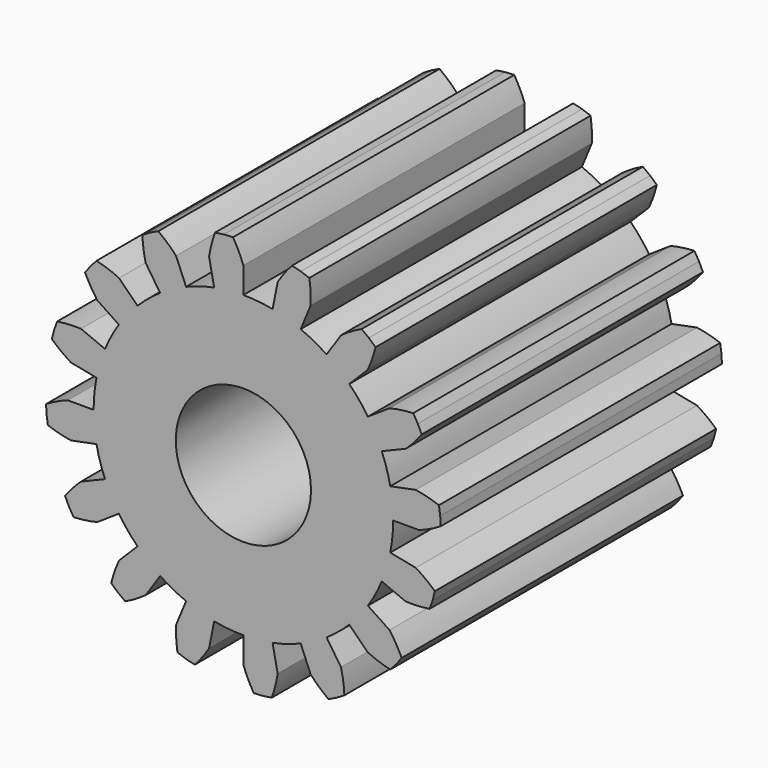
from build123d import *

# Parameters (mm, degrees)
F1_DEPTH = 6.35
F2_R     = 1.221512
F3_DEPTH = 30.89672


with BuildPart() as f1:
    # F0 (on Front) → F1 (new body)
    with BuildSketch(Plane.XZ):
        with BuildLine():
            Line((-1.763935, 2.639916), (-1.502873, 2.249208))
            ThreePointArc((-1.502873, 2.249208), (-1.716097, 2.091071), (-1.912795, 1.912795))
            Line((-1.912795, 1.912795), (-2.245064, 2.245064))
            ThreePointArc((-2.245064, 2.245064), (-2.445129, 2.326504), (-2.652293, 2.387669))
            Line((-2.652293, 2.387669), (-2.761528, 2.266327))
            Line((-2.761528, 2.266327), (-2.859227, 2.135519))
            ThreePointArc((-2.859227, 2.135519), (-2.758822, 1.944268), (-2.639916, 1.763935))
            Line((-2.639916, 1.763935), (-2.249208, 1.502873))
            ThreePointArc((-2.249208, 1.502873), (-2.385685, 1.275175), (-2.499187, 1.035197))
            Line((-2.499187, 1.035197), (-2.933318, 1.21502))
            ThreePointArc((-2.933318, 1.21502), (-3.149319, 1.213699), (-3.36412, 1.19093))
            Line((-3.36412, 1.19093), (-3.418605, 1.037022))
            Line((-3.418605, 1.037022), (-3.458809, 0.878784))
            ThreePointArc((-3.458809, 0.878784), (-3.292858, 0.740514), (-3.113993, 0.619412))
            Line((-3.113993, 0.619412), (-2.653122, 0.527739))
            ThreePointArc((-2.653122, 0.527739), (-2.692074, 0.265146), (-2.7051, 0))
            Line((-2.7051, 0), (-3.175, 0))
            ThreePointArc((-3.175, 0), (-3.374054, -0.08388), (-3.563791, -0.187118))
            Line((-3.563791, -0.187118), (-3.55523, -0.35016))
            Line((-3.55523, -0.35016), (-3.531819, -0.511739))
            ThreePointArc((-3.531819, -0.511739), (-3.325586, -0.575977), (-3.113993, -0.619412))
            Line((-3.113993, -0.619412), (-2.653122, -0.527739))
            ThreePointArc((-2.653122, -0.527739), (-2.588619, -0.785249), (-2.499187, -1.035197))
            Line((-2.499187, -1.035197), (-2.933318, -1.21502))
            ThreePointArc((-2.933318, -1.21502), (-3.08512, -1.36869), (-3.220907, -1.536678))
            Line((-3.220907, -1.536678), (-3.150604, -1.684033))
            Line((-3.150604, -1.684033), (-3.067141, -1.824353))
            ThreePointArc((-3.067141, -1.824353), (-2.852024, -1.80478), (-2.639916, -1.763935))
            Line((-2.639916, -1.763935), (-2.249208, -1.502873))
            ThreePointArc((-2.249208, -1.502873), (-2.091071, -1.716097), (-1.912795, -1.912795))
            Line((-1.912795, -1.912795), (-2.245064, -2.245064))
            ThreePointArc((-2.245064, -2.245064), (-2.326504, -2.445129), (-2.387669, -2.652293))
            Line((-2.387669, -2.652293), (-2.266327, -2.761528))
            Line((-2.266327, -2.761528), (-2.135519, -2.859227))
            ThreePointArc((-2.135519, -2.859227), (-1.944268, -2.758822), (-1.763935, -2.639916))
            Line((-1.763935, -2.639916), (-1.502873, -2.249208))
            ThreePointArc((-1.502873, -2.249208), (-1.275175, -2.385685), (-1.035197, -2.499187))
            Line((-1.035197, -2.499187), (-1.21502, -2.933318))
            ThreePointArc((-1.21502, -2.933318), (-1.213699, -3.149319), (-1.19093, -3.36412))
            Line((-1.19093, -3.36412), (-1.037022, -3.418605))
            Line((-1.037022, -3.418605), (-0.878784, -3.458809))
            ThreePointArc((-0.878784, -3.458809), (-0.740514, -3.292858), (-0.619412, -3.113993))
            Line((-0.619412, -3.113993), (-0.527739, -2.653122))
            ThreePointArc((-0.527739, -2.653122), (-0.265146, -2.692074), (0, -2.7051))
            Line((0, -2.7051), (0, -3.175))
            ThreePointArc((0, -3.175), (0.08388, -3.374054), (0.187118, -3.563791))
            Line((0.187118, -3.563791), (0.35016, -3.55523))
            Line((0.35016, -3.55523), (0.511739, -3.531819))
            ThreePointArc((0.511739, -3.531819), (0.575977, -3.325586), (0.619412, -3.113993))
            Line((0.619412, -3.113993), (0.527739, -2.653122))
            ThreePointArc((0.527739, -2.653122), (0.785249, -2.588619), (1.035197, -2.499187))
            Line((1.035197, -2.499187), (1.21502, -2.933318))
            ThreePointArc((1.21502, -2.933318), (1.36869, -3.08512), (1.536678, -3.220907))
            Line((1.536678, -3.220907), (1.684033, -3.150604))
            Line((1.684033, -3.150604), (1.824353, -3.067141))
            ThreePointArc((1.824353, -3.067141), (1.80478, -2.852024), (1.763935, -2.639916))
            Line((1.763935, -2.639916), (1.502873, -2.249208))
            ThreePointArc((1.502873, -2.249208), (1.716097, -2.091071), (1.912795, -1.912795))
            Line((1.912795, -1.912795), (2.245064, -2.245064))
            ThreePointArc((2.245064, -2.245064), (2.445129, -2.326504), (2.652293, -2.387669))
            Line((2.652293, -2.387669), (2.761528, -2.266327))
            Line((2.761528, -2.266327), (2.859227, -2.135519))
            ThreePointArc((2.859227, -2.135519), (2.758822, -1.944268), (2.639916, -1.763935))
            Line((2.639916, -1.763935), (2.249208, -1.502873))
            ThreePointArc((2.249208, -1.502873), (2.385685, -1.275175), (2.499187, -1.035197))
            Line((2.499187, -1.035197), (2.933318, -1.21502))
            ThreePointArc((2.933318, -1.21502), (3.149319, -1.213699), (3.36412, -1.19093))
            Line((3.36412, -1.19093), (3.418605, -1.037022))
            Line((3.418605, -1.037022), (3.458809, -0.878784))
            ThreePointArc((3.458809, -0.878784), (3.292858, -0.740514), (3.113993, -0.619412))
            Line((3.113993, -0.619412), (2.653122, -0.527739))
            ThreePointArc((2.653122, -0.527739), (2.692074, -0.265146), (2.7051, 0))
            Line((2.7051, 0), (3.175, 0))
            ThreePointArc((3.175, 0), (3.374054, 0.08388), (3.563791, 0.187118))
            Line((3.563791, 0.187118), (3.55523, 0.35016))
            Line((3.55523, 0.35016), (3.531819, 0.511739))
            ThreePointArc((3.531819, 0.511739), (3.325586, 0.575977), (3.113993, 0.619412))
            Line((3.113993, 0.619412), (2.653122, 0.527739))
            ThreePointArc((2.653122, 0.527739), (2.588619, 0.785249), (2.499187, 1.035197))
            Line((2.499187, 1.035197), (2.933318, 1.21502))
            ThreePointArc((2.933318, 1.21502), (3.08512, 1.36869), (3.220907, 1.536678))
            Line((3.220907, 1.536678), (3.150604, 1.684033))
            Line((3.150604, 1.684033), (3.067141, 1.824353))
            ThreePointArc((3.067141, 1.824353), (2.852024, 1.80478), (2.639916, 1.763935))
            Line((2.639916, 1.763935), (2.249208, 1.502873))
            ThreePointArc((2.249208, 1.502873), (2.091071, 1.716097), (1.912795, 1.912795))
            Line((1.912795, 1.912795), (2.245064, 2.245064))
            ThreePointArc((2.245064, 2.245064), (2.326504, 2.445129), (2.387669, 2.652293))
            Line((2.387669, 2.652293), (2.266327, 2.761528))
            Line((2.266327, 2.761528), (2.135519, 2.859227))
            ThreePointArc((2.135519, 2.859227), (1.944268, 2.758822), (1.763935, 2.639916))
            Line((1.763935, 2.639916), (1.502873, 2.249208))
            ThreePointArc((1.502873, 2.249208), (1.275175, 2.385685), (1.035197, 2.499187))
            Line((1.035197, 2.499187), (1.21502, 2.933318))
            ThreePointArc((1.21502, 2.933318), (1.213699, 3.149319), (1.19093, 3.36412))
            Line((1.19093, 3.36412), (1.037022, 3.418605))
            Line((1.037022, 3.418605), (0.878784, 3.458809))
            ThreePointArc((0.878784, 3.458809), (0.740514, 3.292858), (0.619412, 3.113993))
            Line((0.619412, 3.113993), (0.527739, 2.653122))
            ThreePointArc((0.527739, 2.653122), (0.265146, 2.692074), (0, 2.7051))
            Line((0, 2.7051), (0, 3.175))
            ThreePointArc((0, 3.175), (-0.08388, 3.374054), (-0.187118, 3.563791))
            Line((-0.187118, 3.563791), (-0.35016, 3.55523))
            Line((-0.35016, 3.55523), (-0.511739, 3.531819))
            ThreePointArc((-0.511739, 3.531819), (-0.575977, 3.325586), (-0.619412, 3.113993))
            Line((-0.619412, 3.113993), (-0.527739, 2.653122))
            ThreePointArc((-0.527739, 2.653122), (-0.785249, 2.588619), (-1.035197, 2.499187))
            Line((-1.035197, 2.499187), (-1.21502, 2.933318))
            ThreePointArc((-1.21502, 2.933318), (-1.36869, 3.08512), (-1.536678, 3.220907))
            Line((-1.536678, 3.220907), (-1.684033, 3.150604))
            Line((-1.684033, 3.150604), (-1.824353, 3.067141))
            ThreePointArc((-1.824353, 3.067141), (-1.80478, 2.852024), (-1.763935, 2.639916))
        make_face()
    extrude(amount=F1_DEPTH)

    # F2 (on Front) → F3 (cut)
    with BuildSketch(Plane.XZ):
        Circle(F2_R)
    extrude(amount=F3_DEPTH, mode=Mode.SUBTRACT)


solid = f1.part
